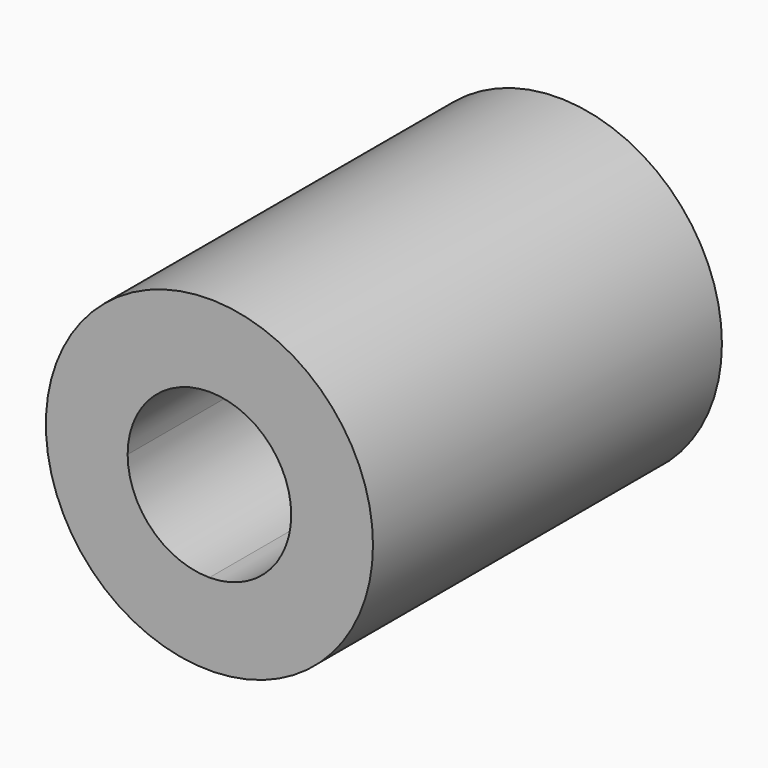
from build123d import *

# Parameters (mm, degrees)
F0_R     = 9.525
F1_DEPTH = 12.7
F3_DEPTH = 25.401


with BuildPart() as f1:
    # F0 (on Front) → F1 (new body, symmetric)
    with BuildSketch(Plane.XZ):
        Circle(F0_R)
    extrude(amount=F1_DEPTH, both=True)

    # F2 (on face) → F3 (cut, through all)
    with BuildSketch(Plane.XZ.offset(12.7)):
        with BuildLine():
            ThreePointArc((4.7625, 0), (3.367596, 3.367596), (0, 4.7625))
            ThreePointArc((0, 4.7625), (-3.367596, 3.367596), (-4.7625, 0))
            ThreePointArc((-4.7625, 0), (-3.367596, -3.367596), (0, -4.7625))
            ThreePointArc((0, -4.7625), (3.367596, -3.367596), (4.7625, 0))
        make_face()
    extrude(amount=-F3_DEPTH, mode=Mode.SUBTRACT)


solid = f1.part
